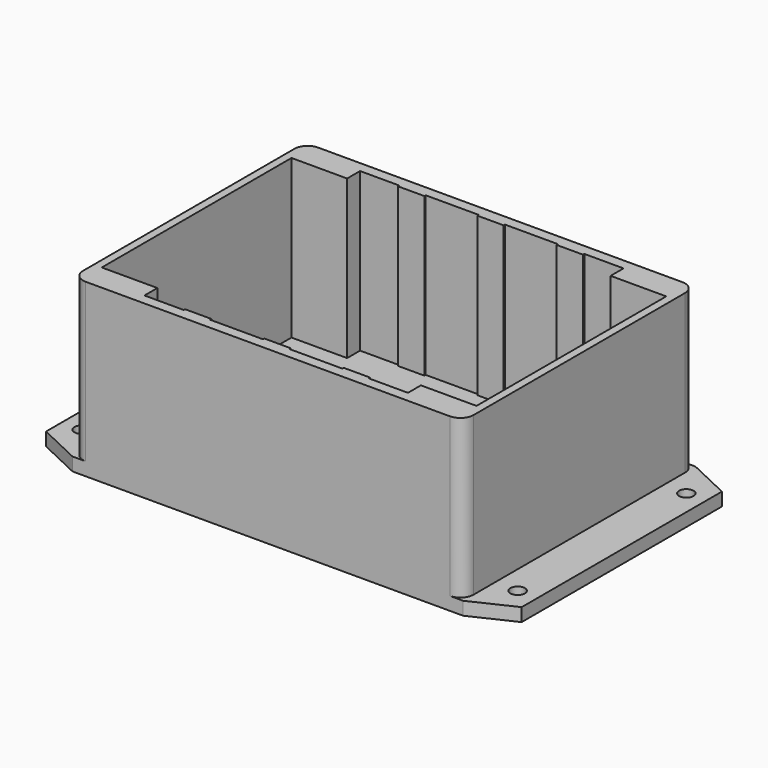
from build123d import *

# Parameters (mm, degrees)
F0_R     = 2.75
F1_DEPTH = 5
F3_DEPTH = 60


with BuildPart() as f1:
    # F0 (on Top) → F1 (new body)
    with BuildSketch(Plane.XY):
        Polygon((74.1, 55.135), (-74.1, 55.135), (-90.235, 47.5), (-90.235, -47.5), (-74.1, -55.135), (74.1, -55.135), (90.235, -47.5), (90.235, 47.5), align=None)
        with Locations((-82.735, -40)):
            Circle(F0_R, mode=Mode.SUBTRACT)
        with Locations((82.735, -40)):
            Circle(F0_R, mode=Mode.SUBTRACT)
        with Locations((-82.735, 40)):
            Circle(F0_R, mode=Mode.SUBTRACT)
        with Locations((82.735, 40)):
            Circle(F0_R, mode=Mode.SUBTRACT)
    extrude(amount=F1_DEPTH)

    # F2 (on face) → F3 (join)
    with BuildSketch(Plane.XY.offset(5)):
        with BuildLine():
            ThreePointArc((74.1, 50.135), (72.635534, 53.670534), (69.1, 55.135))
            Line((69.1, 55.135), (-69.1, 55.135))
            ThreePointArc((-69.1, 55.135), (-72.635534, 53.670534), (-74.1, 50.135))
            Line((-74.1, 50.135), (-74.1, -50.135))
            ThreePointArc((-74.1, -50.135), (-72.635534, -53.670534), (-69.1, -55.135))
            Line((-69.1, -55.135), (69.1, -55.135))
            ThreePointArc((69.1, -55.135), (72.635534, -53.670534), (74.1, -50.135))
            Line((74.1, -50.135), (74.1, 50.135))
        make_face()
        Polygon((-5, 50.5), (0, 50.5), (5, 50.5), (5, 51.135), (25.1, 51.135), (25.1, 50.5), (35.1, 50.5), (35.1, 51.135), (50, 51.135), (50, 45), (71.1, 45), (71.1, -45), (50, -45), (50, -51.135), (35.1, -51.135), (35.1, -50.5), (25.1, -50.5), (25.1, -51.135), (5, -51.135), (5, -50.5), (0, -50.5), (-5, -50.5), (-5, -51.135), (-25.1, -51.135), (-25.1, -50.5), (-35.1, -50.5), (-35.1, -51.135), (-50, -51.135), (-50, -45), (-71.1, -45), (-71.1, 45), (-50, 45), (-50, 51.135), (-35.1, 51.135), (-35.1, 50.5), (-25.1, 50.5), (-25.1, 51.135), (-5, 51.135), align=None, mode=Mode.SUBTRACT)
    extrude(amount=F3_DEPTH)


solid = f1.part
